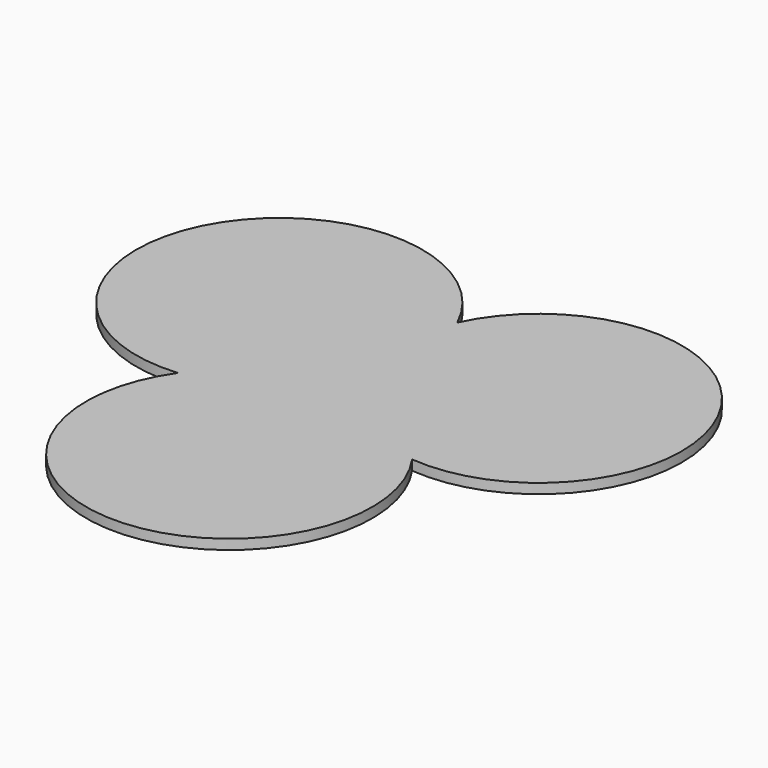
from build123d import *

# Parameters (mm, degrees)
F1_DEPTH = 3


with BuildPart() as f1:
    # F0 (on Top) → F1 (new body)
    with BuildSketch(Plane.XY):
        with BuildLine():
            ThreePointArc((35.184387, -20.313715), (76.239092, 44.01666), (0, 40.627431))
            ThreePointArc((0, 40.627431), (-76.239092, 44.01666), (-35.184387, -20.313715))
            ThreePointArc((-35.184387, -20.313715), (0, -88.033321), (35.184387, -20.313715))
        make_face()
    extrude(amount=F1_DEPTH)


solid = f1.part
